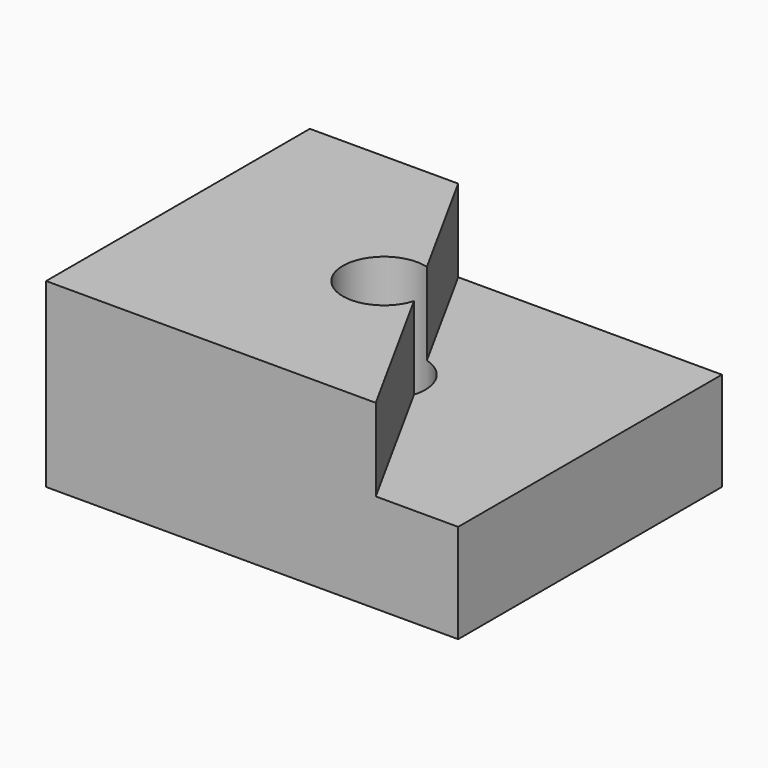
from build123d import *

# Parameters (mm, degrees)
F0_W     = 100
F0_H     = 80
F0_R     = 10
F1_DEPTH = 44
F3_DEPTH = 20


with BuildPart() as f1:
    # F0 (on Top) → F1 (new body)
    with BuildSketch(Plane.XY):
        Rectangle(F0_W, F0_H)
        Circle(F0_R, mode=Mode.SUBTRACT)
    extrude(amount=F1_DEPTH)

    # F2 (on face) → F3 (cut)
    with BuildSketch(Plane.XY.offset(44)):
        Polygon((50, -40), (50, 40), (-14, 40), (30, -40), align=None)
    extrude(amount=-F3_DEPTH, mode=Mode.SUBTRACT)


solid = f1.part
